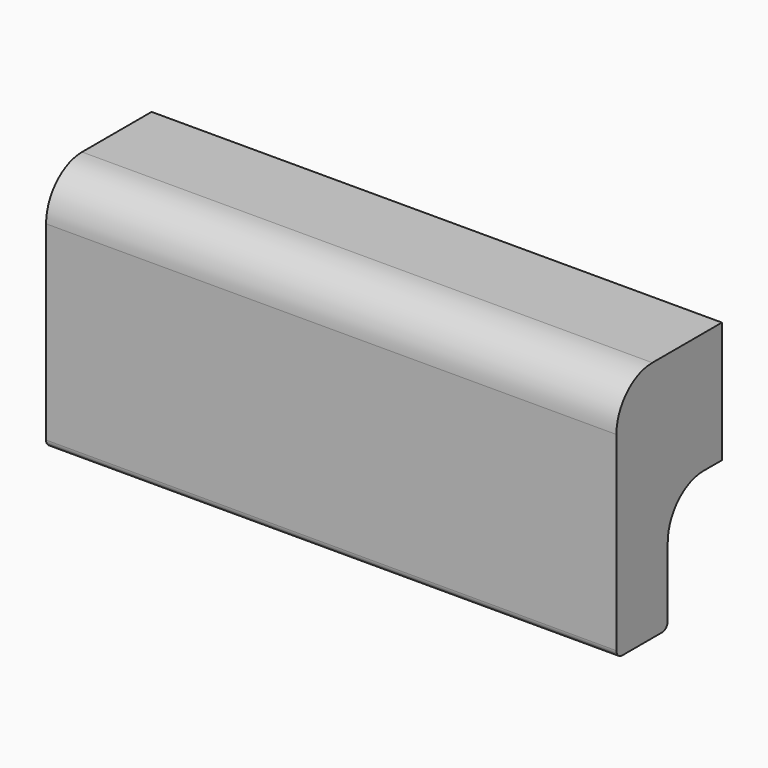
from build123d import *

# Parameters (mm, degrees)
PAD_DEPTH = 80
FILLET_R  = 1


with BuildPart() as part:
    # Sketch → Pad (new body)
    with BuildSketch(Plane.YZ):
        with BuildLine():
            Line((-9.5, 0), (-18.5, 0))
            Line((-18.5, 0), (-18.5, 27.7))
            ThreePointArc((-12.2, 34), (-16.654773, 32.154773), (-18.5, 27.7))
            Line((-12.2, 34), (0, 34))
            Line((0, 34), (0, 17))
            Line((-3.2, 17), (0, 17))
            ThreePointArc((-3.2, 17), (-7.654773, 15.154773), (-9.5, 10.7))
            Line((-9.5, 0), (-9.5, 10.7))
        make_face()
    extrude(amount=PAD_DEPTH)

    # Fillet
    fillet_edges = [part.edges().sort_by_distance(p)[0] for p in [
        (40, -18.5, 0),
        (40, -9.5, 0),
    ]]
    fillet(fillet_edges, radius=FILLET_R)


solid = part.part
